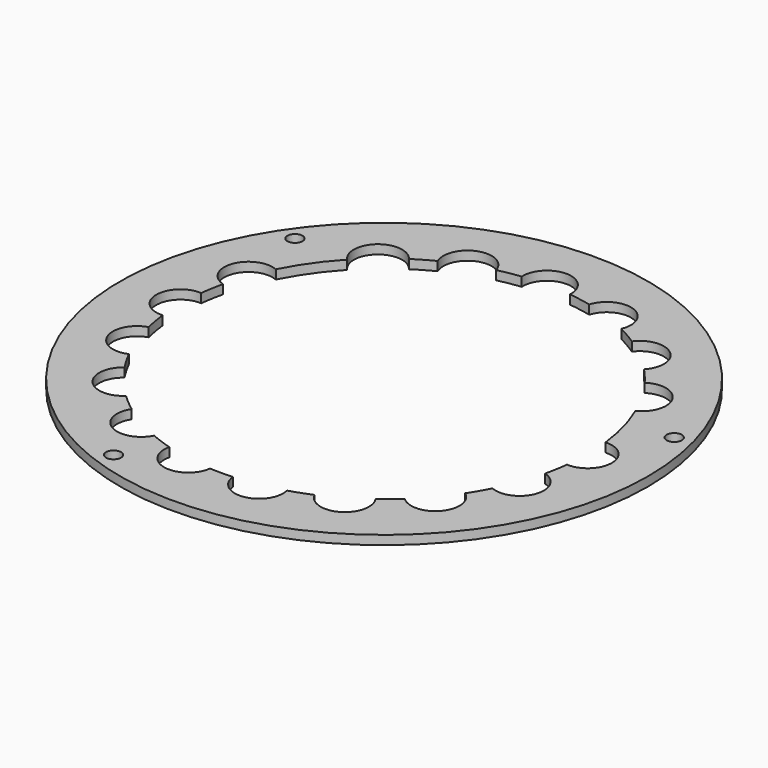
from build123d import *

# Parameters (mm, degrees)
F0_R     = 17.5
F0_R_2   = 0.5
F1_DEPTH = 0.6


with BuildPart() as f1:
    # F0 (on Top) → F1 (new body)
    with BuildSketch(Plane.XY):
        Circle(F0_R)
        with Locations((-5.60913, -15.410959)):
            Circle(F0_R_2, mode=Mode.SUBTRACT)
        with Locations((-13.434094, 9.406654)):
            Circle(F0_R_2, mode=Mode.SUBTRACT)
        with BuildLine():
            ThreePointArc((12.407825, 5.319387), (13.039999, 3.494057), (13.405185, 1.597188))
            ThreePointArc((13.405185, 1.597188), (15.1, 0), (13.405185, -1.597188))
            ThreePointArc((13.405185, -1.597188), (13.294905, -2.34425), (13.143024, -3.083977))
            ThreePointArc((13.143024, -3.083977), (14.189359, -5.164504), (12.050483, -6.085709))
            ThreePointArc((12.050483, -6.085709), (11.691343, -6.75), (11.29562, -7.39317))
            ThreePointArc((11.29562, -7.39317), (11.567271, -9.706093), (9.242315, -9.840204))
            ThreePointArc((9.242315, -9.840204), (8.677633, -10.3416), (8.085798, -10.810637))
            ThreePointArc((8.085798, -10.810637), (7.55, -13.076984), (5.319387, -12.407825))
            ThreePointArc((5.319387, -12.407825), (4.617272, -12.68585), (3.900709, -12.924181))
            ThreePointArc((3.900709, -12.924181), (2.622087, -14.870597), (0.754863, -13.478879))
            ThreePointArc((0.754863, -13.478879), (0, -13.5), (-0.754863, -13.478879))
            ThreePointArc((-0.754863, -13.478879), (-2.622087, -14.870597), (-3.900709, -12.924181))
            ThreePointArc((-3.900709, -12.924181), (-4.617272, -12.68585), (-5.319387, -12.407825))
            ThreePointArc((-5.319387, -12.407825), (-7.55, -13.076984), (-8.085798, -10.810637))
            ThreePointArc((-8.085798, -10.810637), (-8.677633, -10.3416), (-9.242315, -9.840204))
            ThreePointArc((-9.242315, -9.840204), (-11.567271, -9.706093), (-11.29562, -7.39317))
            ThreePointArc((-11.29562, -7.39317), (-11.691343, -6.75), (-12.050483, -6.085709))
            ThreePointArc((-12.050483, -6.085709), (-14.189359, -5.164504), (-13.143024, -3.083977))
            ThreePointArc((-13.143024, -3.083977), (-13.294905, -2.34425), (-13.405185, -1.597188))
            ThreePointArc((-13.405185, -1.597188), (-15.1, 0), (-13.405185, 1.597188))
            ThreePointArc((-13.405185, 1.597188), (-13.294905, 2.34425), (-13.143024, 3.083977))
            ThreePointArc((-13.143024, 3.083977), (-14.189359, 5.164504), (-12.050483, 6.085709))
            ThreePointArc((-12.050483, 6.085709), (-11.058553, 7.743282), (-9.840204, 9.242315))
            ThreePointArc((-9.840204, 9.242315), (-9.706093, 11.567271), (-7.39317, 11.29562))
            ThreePointArc((-7.39317, 11.29562), (-6.75, 11.691343), (-6.085709, 12.050483))
            ThreePointArc((-6.085709, 12.050483), (-5.164504, 14.189359), (-3.083977, 13.143024))
            ThreePointArc((-3.083977, 13.143024), (-2.34425, 13.294905), (-1.597188, 13.405185))
            ThreePointArc((-1.597188, 13.405185), (0, 15.1), (1.597188, 13.405185))
            ThreePointArc((1.597188, 13.405185), (2.34425, 13.294905), (3.083977, 13.143024))
            ThreePointArc((3.083977, 13.143024), (5.164504, 14.189359), (6.085709, 12.050483))
            ThreePointArc((6.085709, 12.050483), (6.75, 11.691343), (7.39317, 11.29562))
            ThreePointArc((7.39317, 11.29562), (9.706093, 11.567271), (9.840204, 9.242315))
            ThreePointArc((9.840204, 9.242315), (10.3416, 8.677633), (10.810637, 8.085798))
            ThreePointArc((10.810637, 8.085798), (13.076984, 7.55), (12.407825, 5.319387))
        make_face(mode=Mode.SUBTRACT)
        with Locations((15.841184, 4.244632)):
            Circle(F0_R_2, mode=Mode.SUBTRACT)
    extrude(amount=F1_DEPTH)


solid = f1.part
